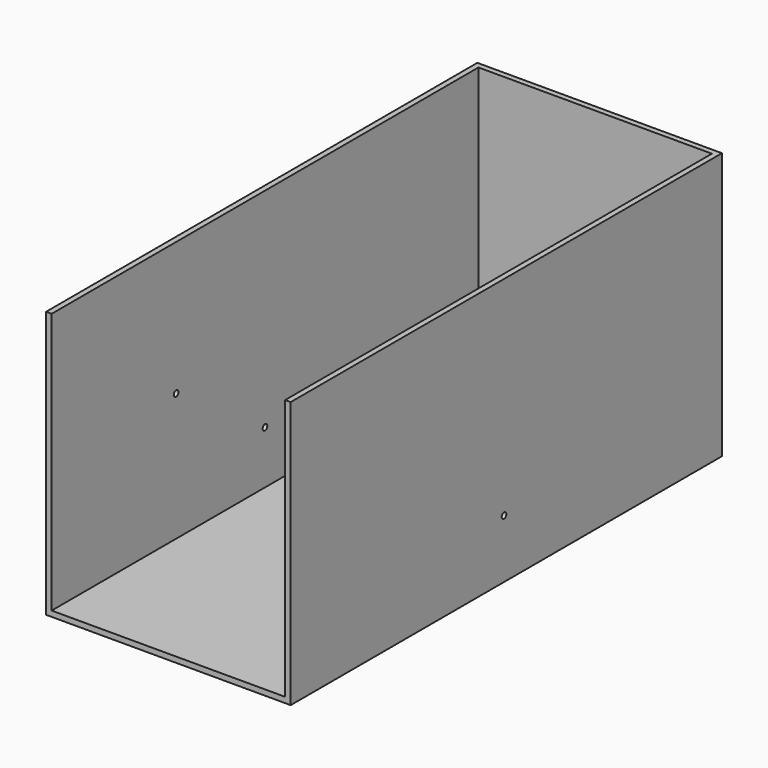
from build123d import *

# Parameters (mm, degrees)
F0_W     = 266.7
F0_H     = 609.4600376606
F1_DEPTH = 6.35
F2_DEPTH = 304.8
F3_R     = 3.302
F4_DEPTH = 279.401
F5_R     = 3.302
F6_DEPTH = 25.4


with BuildPart() as f1:
    # F0 (on Top) → F1 (new body)
    with BuildSketch(Plane.XY):
        with Locations((0, 0.0699811697)):
            Rectangle(F0_W, F0_H)
    extrude(amount=F1_DEPTH)

    # F0 (on Top) → F2 (join)
    with BuildSketch(Plane.XY):
        Polygon((-133.35, 304.8), (133.35, 304.8), (133.35, -304.6600376606), (139.7, -304.6600376606), (139.7, 311.15), (-139.7, 311.15), (-139.7, -304.6600376606), (-133.35, -304.6600376606), align=None)
    extrude(amount=F2_DEPTH)

    # F3 (on face) → F4 (cut, through all)
    with BuildSketch(Plane.YZ.offset(139.7)):
        with Locations((0, 66.802)):
            Circle(F3_R)
    extrude(amount=-F4_DEPTH, mode=Mode.SUBTRACT)

    # F5 (on face) → F6 (cut)
    with BuildSketch(Plane.YZ.offset(-133.35)):
        with Locations((-126.8600376606, 152.4)):
            Circle(F5_R)
    extrude(amount=-F6_DEPTH, mode=Mode.SUBTRACT)


solid = f1.part
